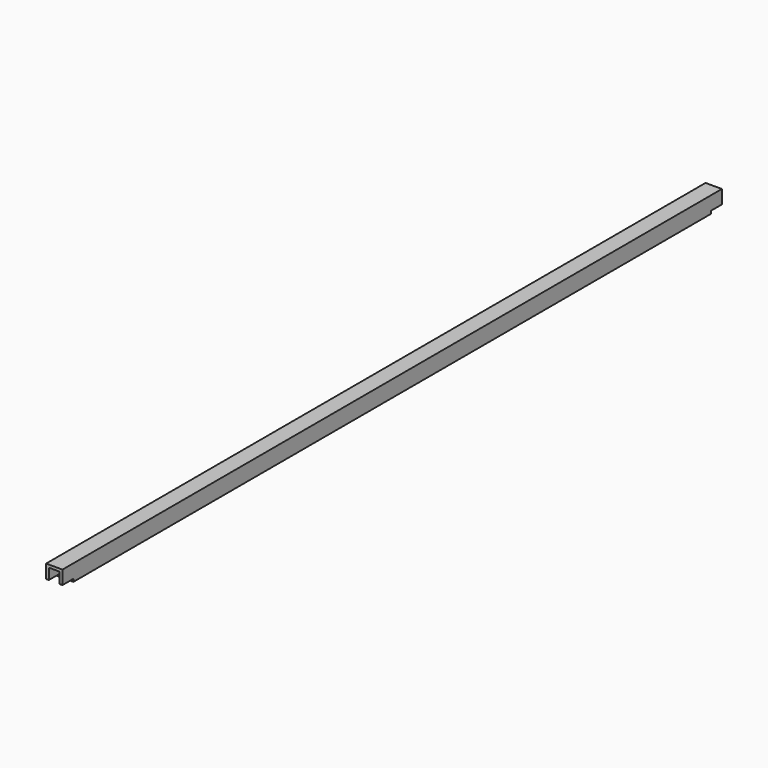
from build123d import *

# Parameters (mm, degrees)
F0_W     = 19.05
F0_H     = 19.05
F0_W_2   = 12.7
F0_H_2   = 12.7
F1_DEPTH = 958.85
F2_W     = 15.875
F2_H     = 3.175
F3_DEPTH = 19.05


with BuildPart() as f1:
    # F0 (on Front) → F1 (new body)
    with BuildSketch(Plane.XZ):
        Rectangle(F0_W, F0_H)
        Rectangle(F0_W_2, F0_H_2, mode=Mode.SUBTRACT)
    extrude(amount=F1_DEPTH)

    # F2 (on face) → F3 (cut)
    with BuildSketch(Plane(origin=(-9.525, 0, 0), x_dir=(0, -1, 0), z_dir=(-1, 0, 0))):
        with Locations((7.9375, -7.9375)):
            Rectangle(F2_W, F2_H)
        with Locations((950.9125, -7.9375)):
            Rectangle(F2_W, F2_H)
    extrude(amount=-F3_DEPTH, mode=Mode.SUBTRACT)


solid = f1.part
